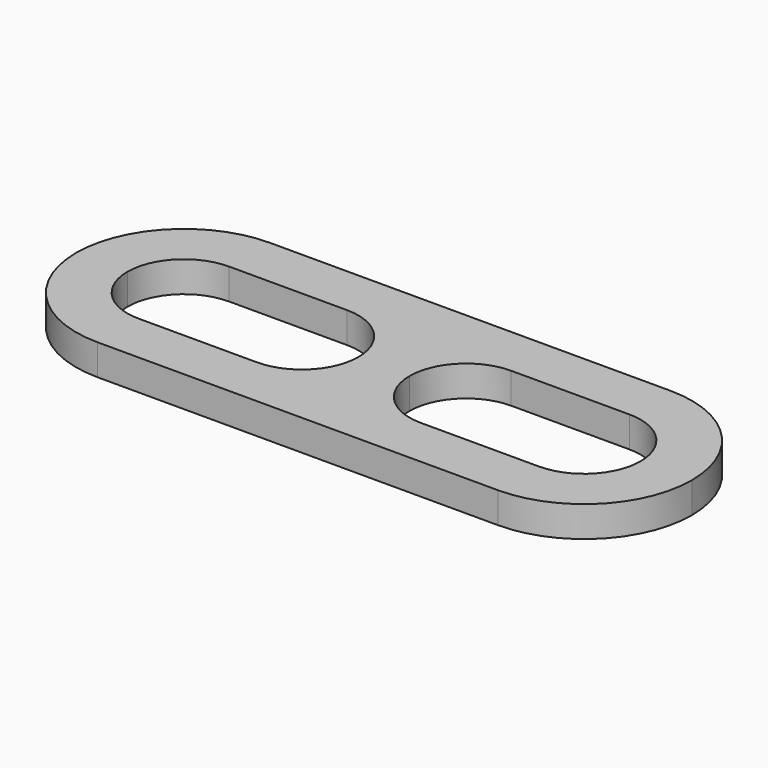
from build123d import *

# Parameters (mm, degrees)
F1_DEPTH = 0.6


with BuildPart() as f1:
    # F0 (on Top) → F1 (new body)
    with BuildSketch(Plane.XY):
        with BuildLine():
            Line((3.9, 2), (-3.9, 2))
            ThreePointArc((-3.9, 2), (-5.384924, 1.384924), (-6, -0.1))
            ThreePointArc((-6, -0.1), (-5.384924, -1.584924), (-3.9, -2.2))
            Line((-3.9, -2.2), (3.9, -2.2))
            ThreePointArc((3.9, -2.2), (5.384924, -1.584924), (6, -0.1))
            ThreePointArc((6, -0.1), (5.384924, 1.384924), (3.9, 2))
        make_face()
        with BuildLine():
            ThreePointArc((-5, -0.1), (-4.677817, 0.677817), (-3.9, 1))
            Line((-3.9, 1), (-1.6, 1))
            ThreePointArc((-1.6, 1), (-0.822183, 0.677817), (-0.5, -0.1))
            ThreePointArc((-0.5, -0.1), (-0.822183, -0.877817), (-1.6, -1.2))
            Line((-1.6, -1.2), (-3.9, -1.2))
            ThreePointArc((-3.9, -1.2), (-4.677817, -0.877817), (-5, -0.1))
        make_face(mode=Mode.SUBTRACT)
        with BuildLine():
            ThreePointArc((0.5, -0.1), (0.822183, 0.677817), (1.6, 1))
            Line((1.6, 1), (3.9, 1))
            ThreePointArc((3.9, 1), (4.677817, 0.677817), (5, -0.1))
            ThreePointArc((5, -0.1), (4.677817, -0.877817), (3.9, -1.2))
            Line((3.9, -1.2), (1.6, -1.2))
            ThreePointArc((1.6, -1.2), (0.822183, -0.877817), (0.5, -0.1))
        make_face(mode=Mode.SUBTRACT)
    extrude(amount=F1_DEPTH)


solid = f1.part
